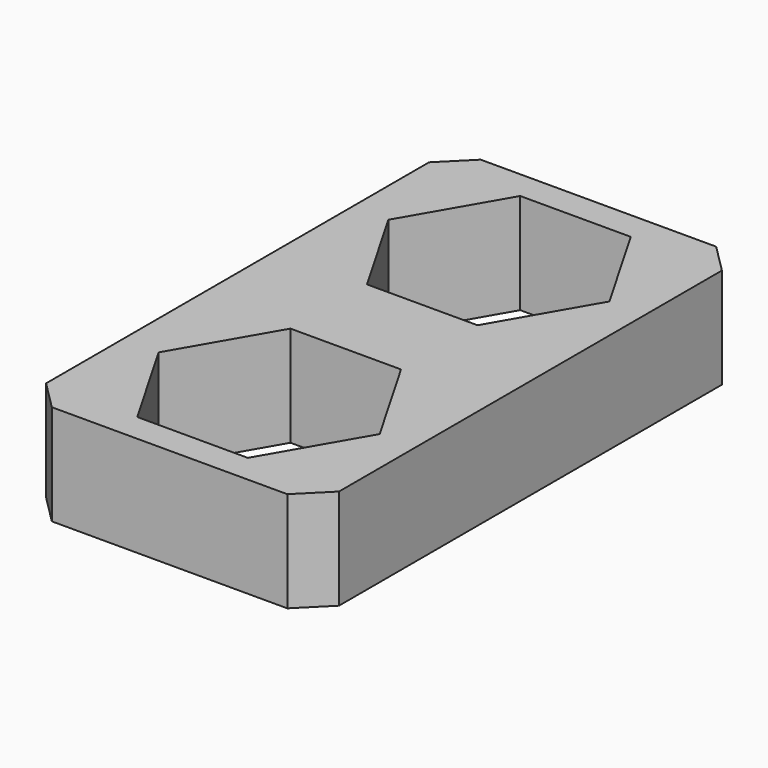
from build123d import *

# Parameters (mm, degrees)
SKETCH_W     = 20.4
SKETCH_H     = 37.336792
PAD_DEPTH    = 7
CHAMFER_SIZE = 2


with BuildPart() as part:
    # Sketch → Pad (new body)
    with BuildSketch(Plane.XY):
        Rectangle(SKETCH_W, SKETCH_H)
        Polygon((3.85, 16.668396), (-3.85, 16.668396), (-7.7, 10), (-3.85, 3.331604), (3.85, 3.331604), (7.7, 10), align=None, mode=Mode.SUBTRACT)
        Polygon((3.85, -3.331604), (-3.85, -3.331604), (-7.7, -10), (-3.85, -16.668396), (3.85, -16.668396), (7.7, -10), align=None, mode=Mode.SUBTRACT)
    extrude(amount=PAD_DEPTH)

    # Chamfer
    chamfer_edges = [part.edges().sort_by_distance(p)[0] for p in [
        (10.2, 18.668396, 3.5),
        (-10.2, 18.668396, 3.5),
        (10.2, -18.668396, 3.5),
        (-10.2, -18.668396, 3.5),
    ]]
    chamfer(chamfer_edges, length=CHAMFER_SIZE)


solid = part.part
